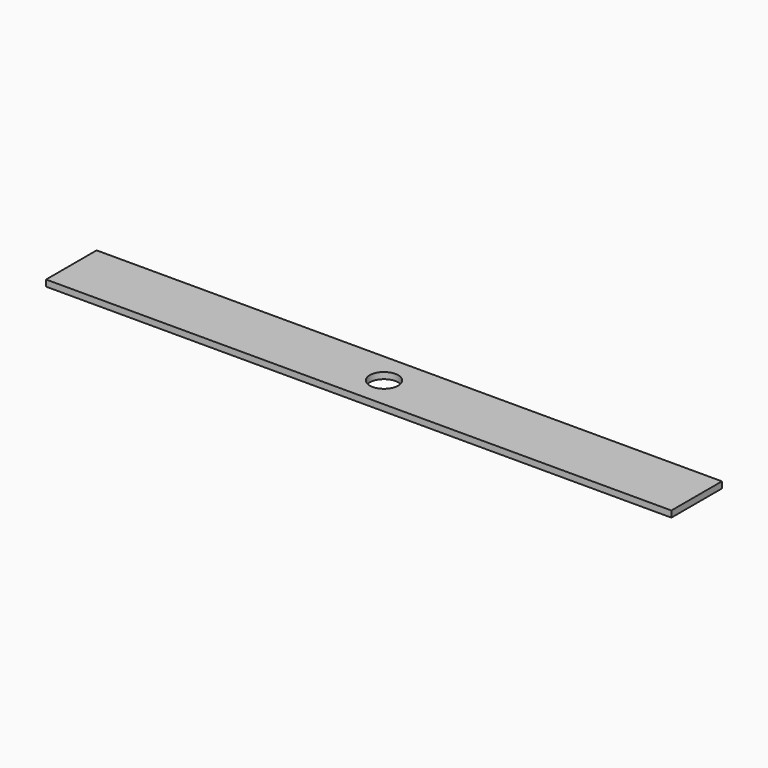
from build123d import *

# Parameters (mm, degrees)
F0_W     = 990
F0_H     = 10
F1_DEPTH = 100
F2_R     = 22.5
F3_DEPTH = 12.5


with BuildPart() as f1:
    # F0 (on Front) → F1 (new body)
    with BuildSketch(Plane.XZ):
        Rectangle(F0_W, F0_H)
    extrude(amount=F1_DEPTH)

    # F2 (on Top) → F3 (cut, symmetric)
    with BuildSketch(Plane.XY):
        with Locations((0, -50)):
            Circle(F2_R)
    extrude(amount=F3_DEPTH, both=True, mode=Mode.SUBTRACT)


solid = f1.part
